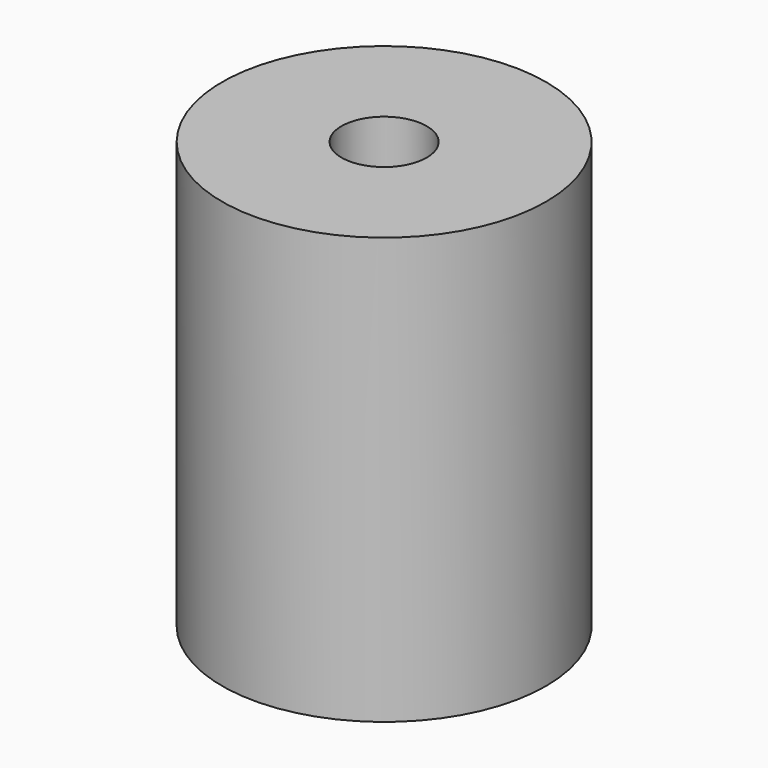
from build123d import *

# Parameters (mm, degrees)
F0_R     = 9.5
F1_DEPTH = 25
F2_R     = 4
F4_DEPTH = 12.5
F3_R     = 2.5
F5_DEPTH = 12.5


with BuildPart() as f1:
    # F0 (on Top) → F1 (new body)
    with BuildSketch(Plane.XY):
        Circle(F0_R)
    extrude(amount=F1_DEPTH)

    # F2 (on face) → F4 (cut)
    with BuildSketch(Plane(origin=(0, 0, 0), x_dir=(1, 0, 0), z_dir=(0, 0, -1))):
        Circle(F2_R)
    extrude(amount=-F4_DEPTH, mode=Mode.SUBTRACT)

    # F3 (on face) → F5 (cut, through all)
    with BuildSketch(Plane.XY.offset(25)):
        Circle(F3_R)
    extrude(amount=-F5_DEPTH, mode=Mode.SUBTRACT)


solid = f1.part
